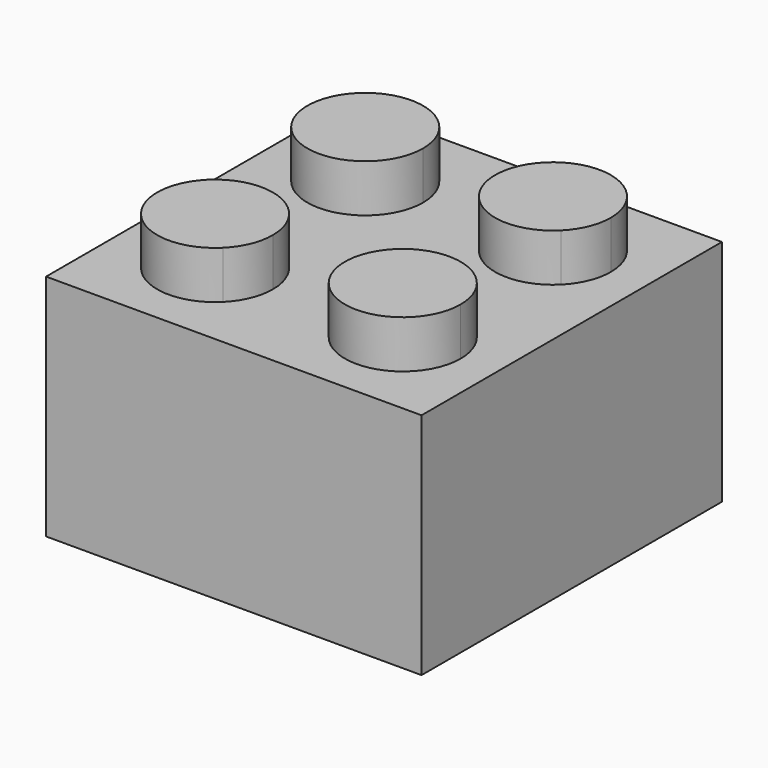
from build123d import *

# Parameters (mm, degrees)
F0_W     = 15.74
F0_H     = 15.74
F1_DEPTH = 9.59
F3_DEPTH = 2
F4_R     = 2.57
F5_DEPTH = 8
F4_R_2   = 2.2615660893
F6_DEPTH = 8


with BuildPart() as f1:
    # F0 (on Top) → F1 (new body)
    with BuildSketch(Plane.XY):
        with Locations((7.87, 7.87)):
            Rectangle(F0_W, F0_H)
    extrude(amount=F1_DEPTH)

    # F2 (on face) → F3 (join)
    with BuildSketch(Plane.XY.offset(9.59)):
        with BuildLine():
            ThreePointArc((6.36, 11.805), (6.1754078663, 12.7330073235), (5.6497339444, 13.5197339444))
            Line((5.6497339444, 13.5197339444), (2.2202660556, 10.0902660556))
            ThreePointArc((2.2202660556, 10.0902660556), (4.8630073235, 9.5645921337), (6.36, 11.805))
        make_face()
        with BuildLine():
            Line((2.2202660556, 10.0902660556), (5.6497339444, 13.5197339444))
            ThreePointArc((5.6497339444, 13.5197339444), (2.2202660556, 13.5197339444), (2.2202660556, 10.0902660556))
        make_face()
        with BuildLine():
            ThreePointArc((14.23, 11.805), (12.7330073235, 14.0454078663), (10.0902660556, 13.5197339444))
            Line((10.0902660556, 13.5197339444), (13.5197339444, 10.0902660556))
            ThreePointArc((13.5197339444, 10.0902660556), (14.0454078663, 10.8769926765), (14.23, 11.805))
        make_face()
        with BuildLine():
            Line((13.5197339444, 10.0902660556), (10.0902660556, 13.5197339444))
            ThreePointArc((10.0902660556, 13.5197339444), (10.0902660556, 10.0902660556), (13.5197339444, 10.0902660556))
        make_face()
        with BuildLine():
            Line((13.5197339444, 5.6497339444), (10.0902660556, 2.2202660556))
            ThreePointArc((10.0902660556, 2.2202660556), (12.7330073235, 1.6945921337), (14.23, 3.935))
            ThreePointArc((14.23, 3.935), (14.0454078663, 4.8630073235), (13.5197339444, 5.6497339444))
        make_face()
        with BuildLine():
            ThreePointArc((13.5197339444, 5.6497339444), (10.0902660556, 5.6497339444), (10.0902660556, 2.2202660556))
            Line((10.0902660556, 2.2202660556), (13.5197339444, 5.6497339444))
        make_face()
        with BuildLine():
            Line((2.2202660556, 5.6497339444), (5.6497339444, 2.2202660556))
            ThreePointArc((5.6497339444, 2.2202660556), (6.1754078663, 3.0069926765), (6.36, 3.935))
            ThreePointArc((6.36, 3.935), (4.8630073235, 6.1754078663), (2.2202660556, 5.6497339444))
        make_face()
        with BuildLine():
            ThreePointArc((2.2202660556, 5.6497339444), (2.2202660556, 2.2202660556), (5.6497339444, 2.2202660556))
            Line((5.6497339444, 2.2202660556), (2.2202660556, 5.6497339444))
        make_face()
    extrude(amount=F3_DEPTH)

    # F4 (on face) → F5 (cut)
    with BuildSketch(Plane(origin=(0, 0, 0), x_dir=(1, 0, 0), z_dir=(0, 0, -1))):
        Polygon((14.5437045489, -1.22), (1.22, -1.22), (1.22, -14.52), (14.4962799393, -14.52), align=None)
        with Locations((7.8818522745, -7.87)):
            Circle(F4_R, mode=Mode.SUBTRACT)
    extrude(amount=-F5_DEPTH, mode=Mode.SUBTRACT)

    # F4 (on face) → F6 (cut)
    with BuildSketch(Plane(origin=(0, 0, 0), x_dir=(1, 0, 0), z_dir=(0, 0, -1))):
        with Locations((7.8818522745, -7.87)):
            Circle(F4_R_2)
    extrude(amount=-F6_DEPTH, mode=Mode.SUBTRACT)


solid = f1.part
